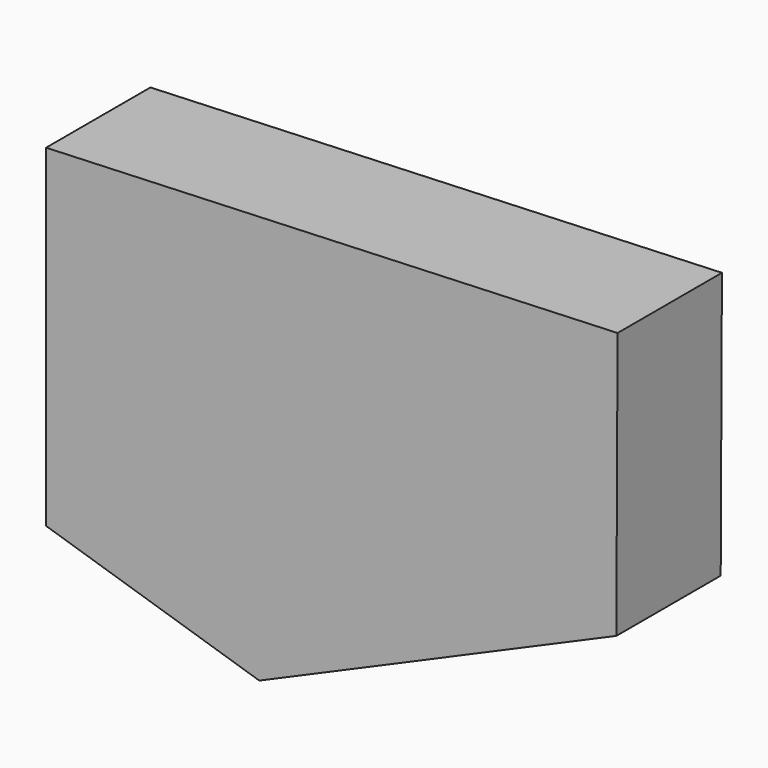
from build123d import *

# Parameters (mm, degrees)
F1_DEPTH = 25.4
F3_DEPTH = 25.4


with BuildPart() as f1:
    # F0 (on Front) → F1 (new body)
    with BuildSketch(Plane.XZ):
        Polygon((48.9591956139, 42.4192249775), (-62.3168870807, 38.0020730792), (-62.3168870807, -26.8363207579), (48.4866544241, -61.5841303073), align=None)
    extrude(amount=F1_DEPTH)

    # F2 (on face) → F3 (cut)
    with BuildSketch(Plane.XZ.offset(25.4)):
        Polygon((48.4866544241, -61.5841303073), (48.722925019, -9.5824526649), (-20.8169179866, -39.8506432498), align=None)
    extrude(amount=-F3_DEPTH, mode=Mode.SUBTRACT)


solid = f1.part
